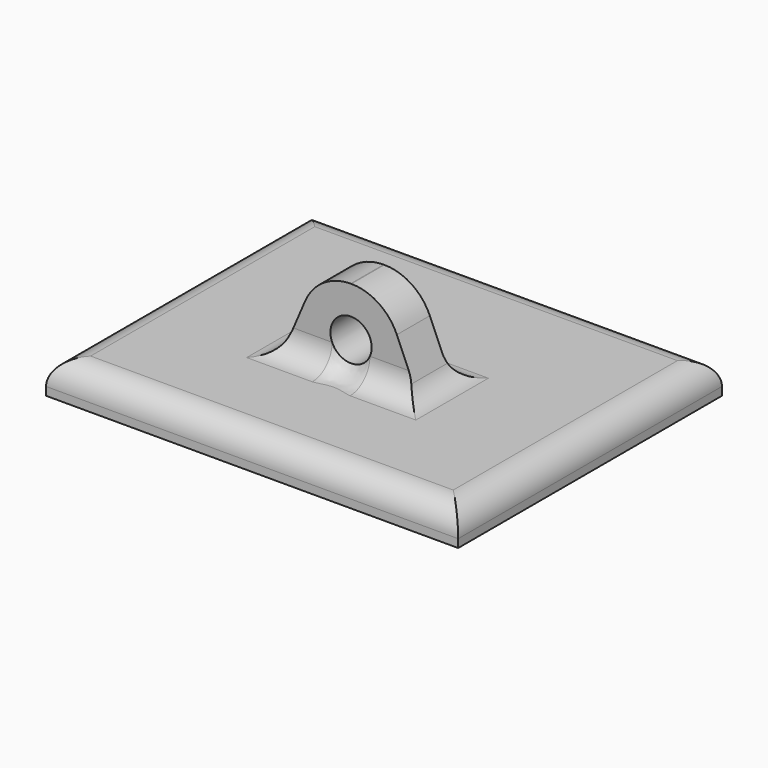
from build123d import *

# Parameters (mm, degrees)
SKETCH_W     = 50
SKETCH_H     = 40
PAD_DEPTH    = 4
SKETCH001_R  = 2.5
PAD001_DEPTH = 5
FILLET_R     = 3
FILLET001_R  = 6


with BuildPart() as part:
    # Sketch → Pad (new body)
    with BuildSketch(Plane.XY):
        Rectangle(SKETCH_W, SKETCH_H)
    extrude(amount=PAD_DEPTH)

    # Sketch001 → Pad001 (join)
    with BuildSketch(Plane.XZ):
        Polygon((-10, 0), (-4, 14), (4, 14), (10, 0), align=None)
        with Locations((0, 8)):
            Circle(SKETCH001_R, mode=Mode.SUBTRACT)
    extrude(amount=PAD001_DEPTH)

    # Fillet
    fillet_edges = [part.edges().sort_by_distance(p)[0] for p in [
        (-25, 0, 4),
        (0, 20, 4),
        (0, -20, 4),
        (25, 0, 4),
        (-8.285714, -2.5, 4),
        (0, -5, 4),
        (8.285714, -2.5, 4),
        (0, 0, 4),
    ]]
    fillet(fillet_edges, radius=FILLET_R)

    # Fillet001
    fillet001_edges = [part.edges().sort_by_distance(p)[0] for p in [
        (-4, -2.5, 14),
        (4, -2.5, 14),
    ]]
    fillet(fillet001_edges, radius=FILLET001_R)


solid = part.part
